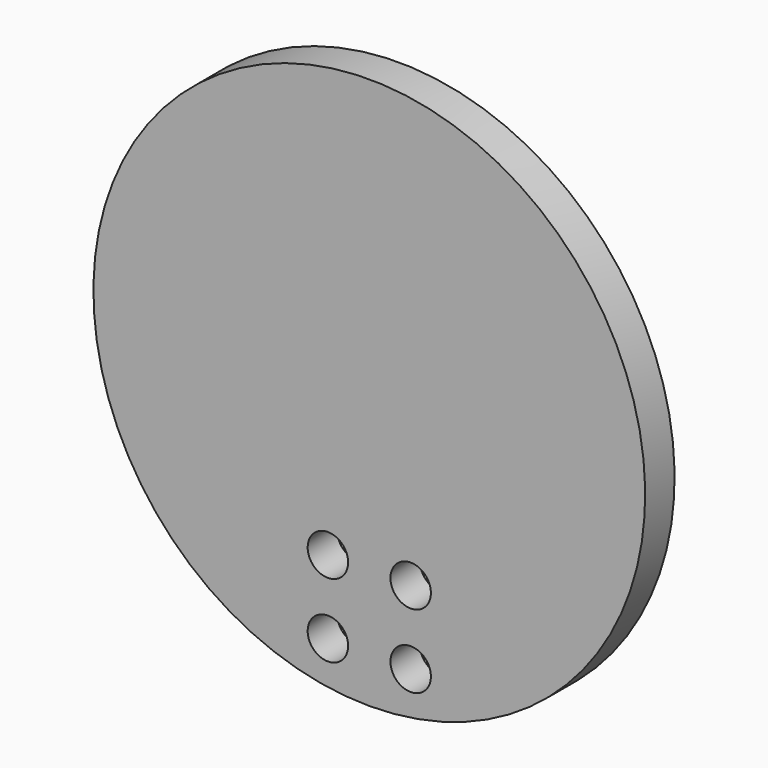
from build123d import *

# Parameters (mm, degrees)
CYLINDER048_R                 = 2.2
CYLINDER048_DEPTH             = 26
CYLINDER048_ROLL_ANGLE        = -90
ARRAY012_X_COUNT              = 2
ARRAY012_X_PITCH              = 8
ARRAY012_Z_COUNT              = 2
ARRAY012_Z_PITCH              = 9
CYLINDER047_R                 = 30
CYLINDER047_DEPTH             = 4
CYLINDER047_ROLL_ANGLE        = -90
PART_MIRRORING008_PITCH_ANGLE = 90


with BuildPart() as obj1:
    # Cylinder048 → Cylinder048 (new body)
    with BuildSketch(Plane.XY):
        Circle(CYLINDER048_R)
    extrude(amount=CYLINDER048_DEPTH)


with BuildPart() as obj1_1:
    # Cylinder048 roll: moved
    add(obj1.part.rotate(Axis((0, 0, 0), (1, 0, 0)), CYLINDER048_ROLL_ANGLE))


with BuildPart() as obj1_2:
    # Cylinder048 placement: moved
    add(obj1_1.part.moved(Location((202, 0, 4))))

    # Array012 X: obj1_2


with BuildPart() as obj1_3:
    add(obj1_2.part)
    with Locations(*[(i * ARRAY012_X_PITCH, 0, 0) for i in range(1, ARRAY012_X_COUNT)]):
        add(obj1_2.part)

    # Array012 Z: obj1_2


with BuildPart() as obj1_4:
    add(obj1_3.part)
    with Locations(*[(0, 0, i * ARRAY012_Z_PITCH) for i in range(1, ARRAY012_Z_COUNT)]):
        add(obj1_3.part)


with BuildPart() as obj2:
    # Cylinder047 → Cylinder047 (new body)
    with BuildSketch(Plane.XY):
        Circle(CYLINDER047_R)
    extrude(amount=CYLINDER047_DEPTH)


with BuildPart() as obj2_1:
    # Cylinder047 roll: moved
    add(obj2.part.rotate(Axis((0, 0, 0), (1, 0, 0)), CYLINDER047_ROLL_ANGLE))


with BuildPart() as obj2_2:
    # Cylinder047 placement: moved
    add(obj2_1.part.moved(Location((185, 20, 8.5))))

    # Cut030: cut obj1
    add(obj1_4.part, mode=Mode.SUBTRACT)


with BuildPart() as obj2_3:
    # Cut030 placement: moved
    add(obj2_2.part.moved(Location((-171, -4, 0))))


with BuildPart() as part_mirroring008:
    # Part__Mirroring008: instance of obj2
    add(obj2_3.part.mirror(Plane(origin=(0, 0, 0), x_dir=(1, 0, 0), z_dir=(0, 1, 0))))


with BuildPart() as part_mirroring008_1:
    # Part__Mirroring008 pitch: moved
    add(part_mirroring008.part.rotate(Axis((0, 0, 0), (0, 1, 0)), PART_MIRRORING008_PITCH_ANGLE))


with BuildPart() as part_mirroring008_2:
    # Part__Mirroring008 placement: moved
    add(part_mirroring008_1.part.moved(Location((359, -63, 326))))


solid = part_mirroring008_2.part
